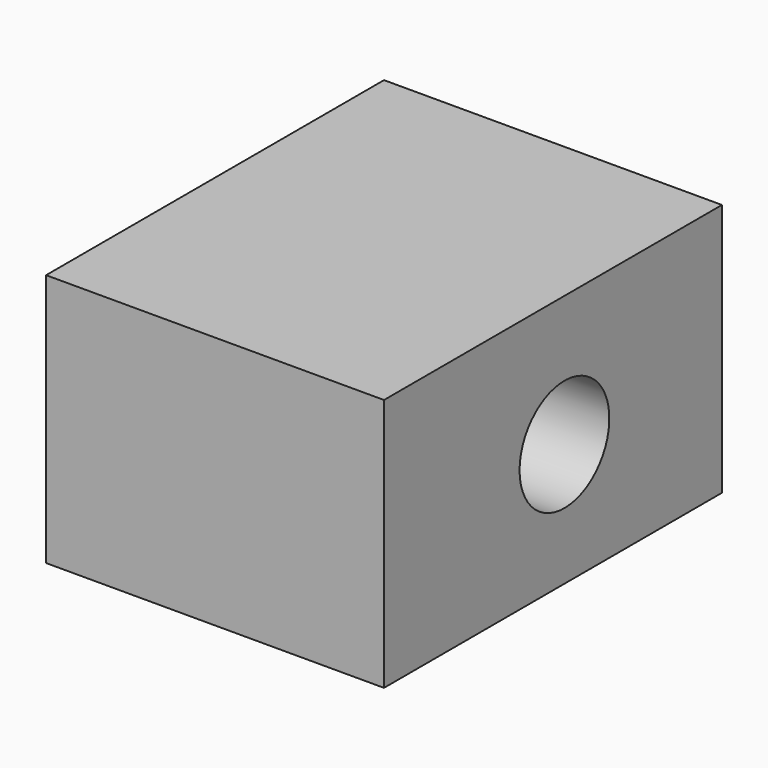
from build123d import *

# Parameters (mm, degrees)
F0_W     = 101.6
F0_H     = 76.2
F1_DEPTH = 127
F2_R     = 16.867322
F3_DEPTH = 101.6


with BuildPart() as f1:
    # F0 (on Front) → F1 (new body)
    with BuildSketch(Plane.XZ):
        with Locations((50.8, 38.1)):
            Rectangle(F0_W, F0_H)
    extrude(amount=-F1_DEPTH)

    # F2 (on face) → F3 (cut, through all)
    with BuildSketch(Plane(origin=(0, 0, 0), x_dir=(0, -1, 0), z_dir=(-1, 0, 0))):
        with Locations((-67.816451, 36.87479)):
            Circle(F2_R)
    extrude(amount=-F3_DEPTH, mode=Mode.SUBTRACT)


solid = f1.part
